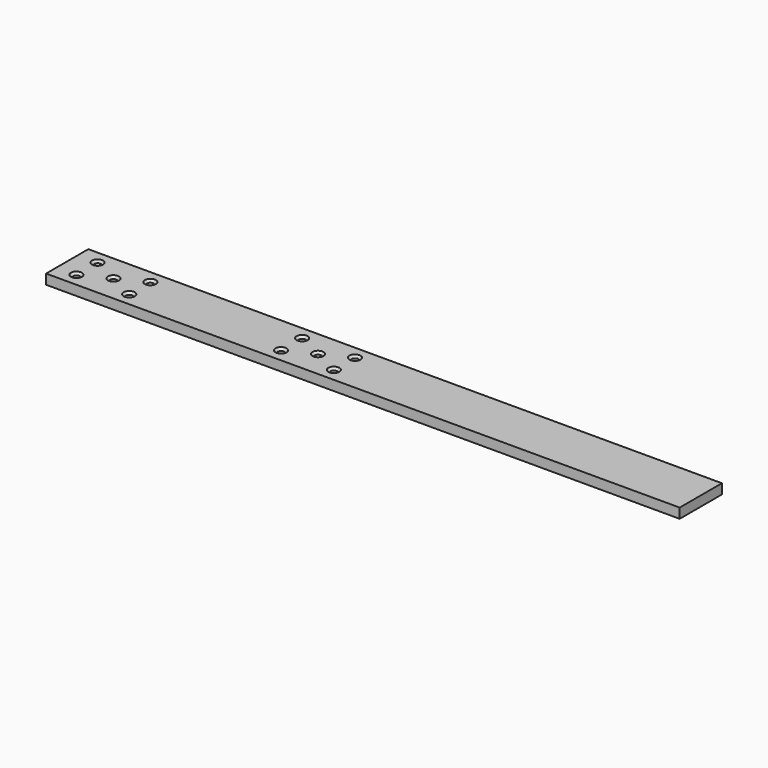
from build123d import *

# Parameters (mm, degrees)
F0_W           = 609.6
F0_H           = 50.8
F1_DEPTH       = 9.525
F3_D           = 6.35
F3_CSINK_D     = 10.668
F3_CSINK_ANGLE = 90
F4_D           = 6.35
F4_CSINK_D     = 10.668
F4_CSINK_ANGLE = 90


with BuildPart() as f1:
    # F0 (on Top) → F1 (new body)
    with BuildSketch(Plane.XY):
        Rectangle(F0_W, F0_H)
    extrude(amount=F1_DEPTH)

    # F3 (through all)
    with Locations(Plane.XY.offset(9.525)):
        with Locations((-285.75, -12.7), (-285.75, 12.7), (-260.35, 0), (-234.95, -12.7), (-234.95, 12.7)):
            CounterSinkHole(F3_D / 2, F3_CSINK_D / 2, counter_sink_angle=F3_CSINK_ANGLE)

    # F4 (through all)
    with Locations(Plane.XY.offset(9.525)):
        with Locations((-88.9, 12.7), (-88.9, -12.7), (-63.5, 0), (-38.1, 12.7), (-38.1, -12.7)):
            CounterSinkHole(F4_D / 2, F4_CSINK_D / 2, counter_sink_angle=F4_CSINK_ANGLE)


solid = f1.part
